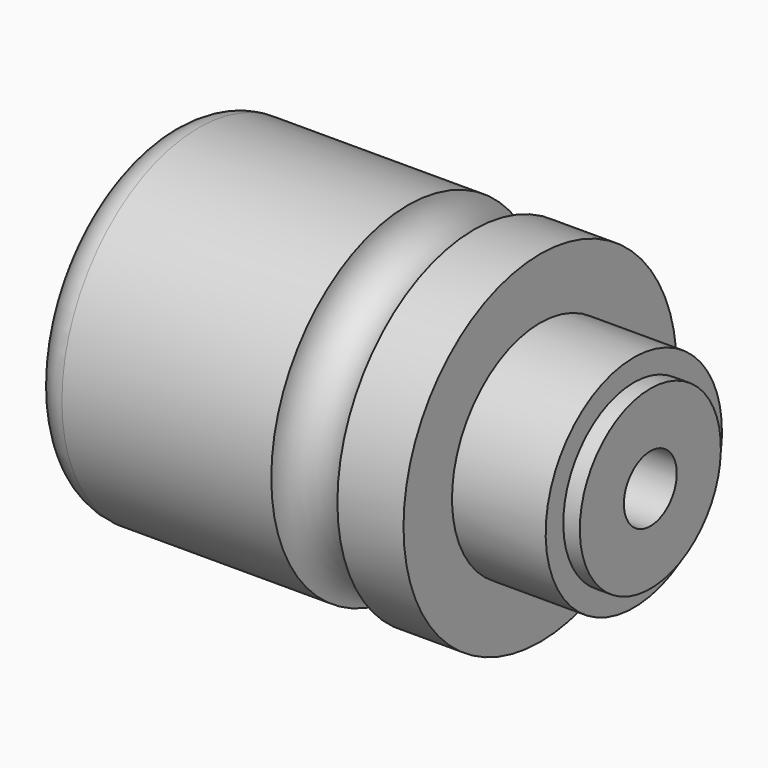
from build123d import *

# Parameters (mm, degrees)
F2_R      = 25
F3_DEPTH  = 1.5
F4_R      = 16
F5_DEPTH  = 12
F6_R      = 20.5
F7_DEPTH  = 3
F8_R      = 16
F9_DEPTH  = 8
F10_R     = 6
F11_DEPTH = 63.501


with BuildPart() as f1:
    # F0 (on Front) → F1 (revolve)
    with BuildSketch(Plane.XZ):
        with BuildLine():
            Line((0, 25), (0, 0))
            Line((0, 0), (88, 0))
            Line((88, 0), (88, 16))
            Line((88, 16), (85, 16))
            Line((85, 16), (85, 20))
            Line((85, 20), (68, 20))
            Line((68, 20), (68, 31))
            Line((68, 31), (56, 31))
            ThreePointArc((56, 31), (50, 25), (44, 31))
            Line((44, 31), (6, 31))
            ThreePointArc((6, 31), (1.7573593129, 29.2426406871), (0, 25))
        make_face()
    revolve(axis=Axis((44, 0, 0), (1, 0, 0)))

    # F2 (on face) → F3 (cut)
    with BuildSketch(Plane(origin=(0, 0, 0), x_dir=(0, -1, 0), z_dir=(-1, 0, 0))):
        Circle(F2_R)
    extrude(amount=-F3_DEPTH, mode=Mode.SUBTRACT)

    # F4 (on face) → F5 (cut)
    with BuildSketch(Plane(origin=(1.5, 0, 0), x_dir=(0, -1, 0), z_dir=(-1, 0, 0))):
        Circle(F4_R)
    extrude(amount=-F5_DEPTH, mode=Mode.SUBTRACT)

    # F6 (on face) → F7 (cut)
    with BuildSketch(Plane(origin=(13.5, 0, 0), x_dir=(0, -1, 0), z_dir=(-1, 0, 0))):
        Circle(F6_R)
    extrude(amount=-F7_DEPTH, mode=Mode.SUBTRACT)

    # F8 (on face) → F9 (cut)
    with BuildSketch(Plane(origin=(16.5, 0, 0), x_dir=(0, -1, 0), z_dir=(-1, 0, 0))):
        Circle(F8_R)
    extrude(amount=-F9_DEPTH, mode=Mode.SUBTRACT)

    # F10 (on face) → F11 (cut, through all)
    with BuildSketch(Plane(origin=(24.5, 0, 0), x_dir=(0, -1, 0), z_dir=(-1, 0, 0))):
        Circle(F10_R)
    extrude(amount=-F11_DEPTH, mode=Mode.SUBTRACT)


solid = f1.part
